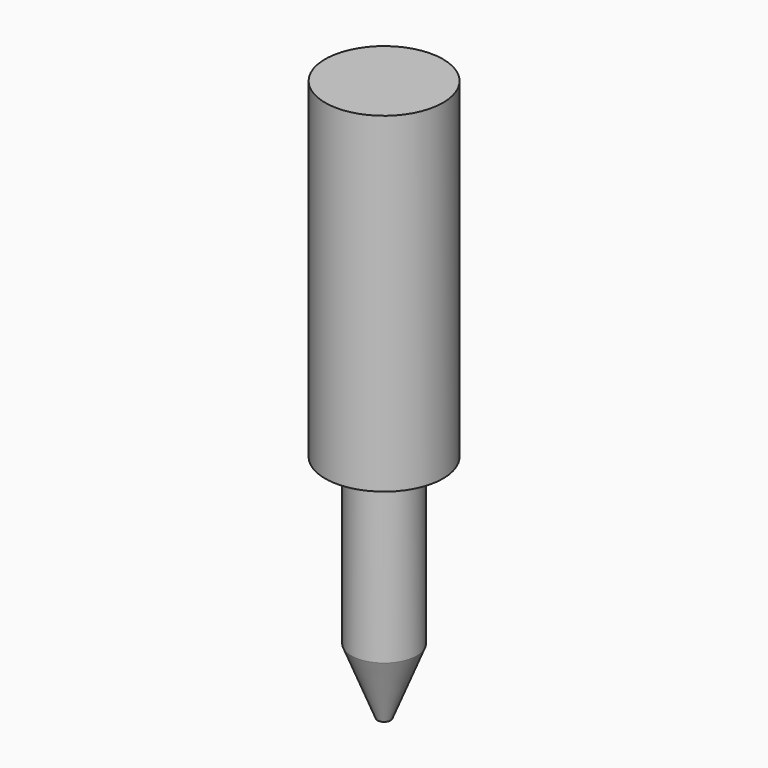
from build123d import *

# Parameters (mm, degrees)
CYLINDER010_R     = 0.5
CYLINDER010_DEPTH = 2.51
CYLINDER009_R     = 0.9
CYLINDER009_DEPTH = 5.05


with BuildPart() as cylinder010:
    # Cylinder010 → Cylinder010 (new body)
    with BuildSketch(Plane(origin=(2.54, 0, -2.51), x_dir=(1, 0, 0), z_dir=(0, 0, 1))):
        Circle(CYLINDER010_R)
    extrude(amount=CYLINDER010_DEPTH)


with BuildPart() as cone004:
    # Cone004 → Cone004 (revolve)
    with BuildSketch(Plane(origin=(2.54, 0, -3.51), x_dir=(1, 0, 0), z_dir=(0, -1, 0))):
        Polygon((0, 0), (0.1, 0), (0.5, 1), (0, 1), align=None)
    revolve(axis=Axis((2.54, 0, -3.51), (0, 0, 1)))


with BuildPart() as fusion004:
    # Cylinder009 → Cylinder009 (new body)
    with BuildSketch(Plane(origin=(2.54, 0, 0), x_dir=(1, 0, 0), z_dir=(0, 0, 1))):
        Circle(CYLINDER009_R)
    extrude(amount=CYLINDER009_DEPTH)

    # Fusion004: union Cylinder010, Cone004
    add(cylinder010.part)
    add(cone004.part)


with BuildPart() as fusion004_1:
    # Fusion004 placement: moved
    add(fusion004.part.moved(Location((45.72, 24.13, 0))))


solid = fusion004_1.part
